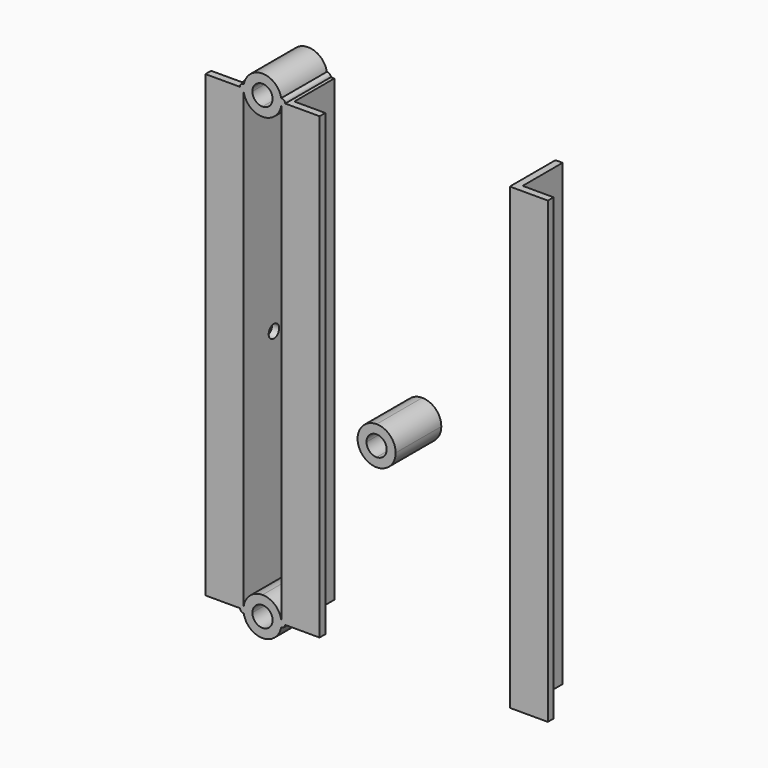
from build123d import *

# Parameters (mm, degrees)
F1_DEPTH  = 612.775
F3_D      = 17.4625
F5_DEPTH  = 76.2
F6_DEPTH  = 76.2
F14_DEPTH = 76.2
F12_R     = 4.4480809119
F15_DEPTH = 76.2


with BuildPart() as f1:
    # F0 (on Top) → F1 (new body)
    with BuildSketch(Plane.XY):
        Polygon((-50.8, 0), (0, 0), (0, 9.525), (-41.275, 9.525), (-41.275, 76.2), (-50.8, 76.2), align=None)
    extrude(amount=F1_DEPTH)

    # F3 (through all)
    with Locations(Plane.YZ.offset(-41.275)):
        with Locations((50.8, 306.3875)):
            Hole(F3_D / 2)


with BuildPart() as f5:
    # F4 (on face) → F5 (new body)
    with BuildSketch(Plane.XZ):
        with BuildLine():
            Line((150.6370638847, 301.0559678078), (162.5433138847, 301.0559678078))
            ThreePointArc((162.5433138847, 301.0559678078), (155.1038261269, 319.0164800499), (137.1433138847, 326.4559678078))
            Line((137.1433138847, 326.4559678078), (137.1433138847, 314.5497178078))
            ThreePointArc((137.1433138847, 314.5497178078), (146.6848360134, 310.5974899364), (150.6370638847, 301.0559678078))
        make_face()
        with BuildLine():
            Line((137.1433138847, 314.5497178078), (137.1433138847, 326.4559678078))
            ThreePointArc((137.1433138847, 326.4559678078), (119.1828016426, 319.0164800499), (111.7433138847, 301.0559678078))
            Line((111.7433138847, 301.0559678078), (123.6495638847, 301.0559678078))
            ThreePointArc((123.6495638847, 301.0559678078), (127.6017917561, 310.5974899364), (137.1433138847, 314.5497178078))
        make_face()
        with BuildLine():
            ThreePointArc((111.7433138847, 301.0559678078), (119.1828016426, 283.0954555656), (137.1433138847, 275.6559678078))
            Line((137.1433138847, 275.6559678078), (137.1433138847, 287.5622178078))
            ThreePointArc((137.1433138847, 287.5622178078), (127.6017917561, 291.5144456791), (123.6495638847, 301.0559678078))
            Line((123.6495638847, 301.0559678078), (111.7433138847, 301.0559678078))
        make_face()
        with BuildLine():
            ThreePointArc((137.1433138847, 275.6559678078), (155.1038261269, 283.0954555656), (162.5433138847, 301.0559678078))
            Line((162.5433138847, 301.0559678078), (150.6370638847, 301.0559678078))
            ThreePointArc((150.6370638847, 301.0559678078), (146.6848360134, 291.5144456791), (137.1433138847, 287.5622178078))
            Line((137.1433138847, 287.5622178078), (137.1433138847, 275.6559678078))
        make_face()
    extrude(amount=F5_DEPTH)


with BuildPart() as f6:
    # F4 (on face) → F6 (new body)
    with BuildSketch(Plane.XZ):
        with BuildLine():
            ThreePointArc((-101.6, 0), (-76.2, -25.4), (-50.8, 0))
            Line((-50.8, 0), (-62.70625, 0))
            ThreePointArc((-62.70625, 0), (-76.2, -13.49375), (-89.69375, 0))
            Line((-89.69375, 0), (-101.6, 0))
        make_face()
        with BuildLine():
            Line((-76.2, 13.49375), (-76.2, 25.4))
            ThreePointArc((-76.2, 25.4), (-94.1605122421, 17.9605122421), (-101.6, 0))
            Line((-101.6, 0), (-89.69375, 0))
            ThreePointArc((-89.69375, 0), (-85.7415221286, 9.5415221286), (-76.2, 13.49375))
        make_face()
        with BuildLine():
            Line((-62.70625, 0), (-50.8, 0))
            ThreePointArc((-50.8, 0), (-58.2394877579, 17.9605122421), (-76.2, 25.4))
            Line((-76.2, 25.4), (-76.2, 13.49375))
            ThreePointArc((-76.2, 13.49375), (-66.6584778714, 9.5415221286), (-62.70625, 0))
        make_face()
    extrude(amount=-F6_DEPTH)


with BuildPart() as f6b:
    # F4 (on face) → F6, piece 2 (new body)
    with BuildSketch(Plane.XZ):
        with BuildLine():
            ThreePointArc((-101.6, 612.775), (-94.1605122421, 594.8144877579), (-76.2, 587.375))
            Line((-76.2, 587.375), (-76.2, 599.28125))
            ThreePointArc((-76.2, 599.28125), (-85.7415221286, 603.2334778714), (-89.69375, 612.775))
            Line((-89.69375, 612.775), (-101.6, 612.775))
        make_face()
        with BuildLine():
            ThreePointArc((-76.2, 587.375), (-58.2394877579, 594.8144877579), (-50.8, 612.775))
            Line((-50.8, 612.775), (-62.70625, 612.775))
            ThreePointArc((-62.70625, 612.775), (-66.6584778714, 603.2334778714), (-76.2, 599.28125))
            Line((-76.2, 599.28125), (-76.2, 587.375))
        make_face()
        with BuildLine():
            Line((-62.70625, 612.775), (-50.8, 612.775))
            ThreePointArc((-50.8, 612.775), (-76.2, 638.175), (-101.6, 612.775))
            Line((-101.6, 612.775), (-89.69375, 612.775))
            ThreePointArc((-89.69375, 612.775), (-76.2, 626.26875), (-62.70625, 612.775))
        make_face()
    extrude(amount=-F6_DEPTH)


with BuildPart() as f7_1:
    # F7: copy of F1
    add(f1.part.moved(Location((304.8, 0, 0))))


with BuildPart() as f9_1:
    # F9: instance of F1
    add(f1.part.mirror(Plane.YZ.offset(-76.2)))


with BuildPart() as f1_1:
    add(f1.part)

    add(f6.part)  # F14 merges F6
    # F13 (on face) → F14 (join)
    with BuildSketch(Plane.XZ):
        with BuildLine():
            ThreePointArc((-50.8, 4.7644767309), (-54.3393129092, -3.3256027479), (-46.1590630227, 0))
            Line((-46.1590630227, 0), (-50.8, 0))
            Line((-50.8, 0), (-50.8, 4.7644767309))
        make_face()
    extrude(amount=-F14_DEPTH)

    add(f6b.part)  # F15 merges F6b

    add(f9_1.part)  # F15 merges F9_1
    # F12 (on face) + F10 (on face) + F11 (on face) → F15 (join)
    with BuildSketch(Plane.XZ):
        with Locations((-101.637147367, 0)):
            Circle(F12_R)
    with BuildSketch(Plane.XZ):
        with BuildLine():
            ThreePointArc((-101.153515625, 617.5165248552), (-105.1219162459, 609.5691440758), (-96.8375, 612.775))
            Line((-96.8375, 612.775), (-101.6, 612.775))
            ThreePointArc((-101.6, 612.775), (-101.4881325613, 615.15625), (-101.153515625, 617.5165248552))
        make_face()
    with BuildSketch(Plane.XZ):
        with BuildLine():
            Line((-50.8, 612.775), (-45.839248463, 612.775))
            ThreePointArc((-45.839248463, 612.775), (-53.938212712, 616.0560319153), (-50.8, 607.9006647678))
            Line((-50.8, 607.9006647678), (-50.8, 612.775))
        make_face()
    extrude(amount=-F15_DEPTH)


solid = Compound([f5.part, f7_1.part, f1_1.part])
